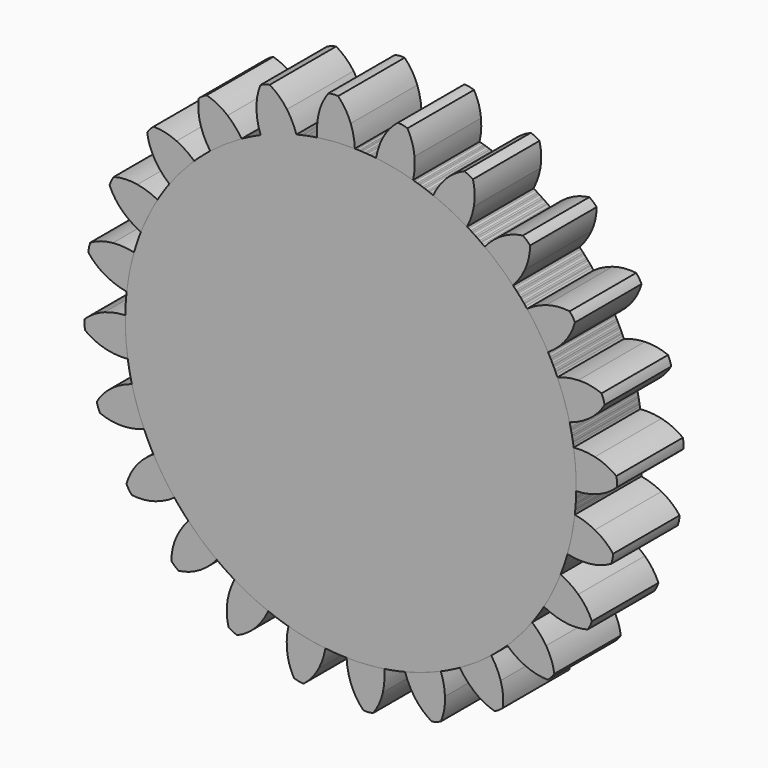
from build123d import *

# Parameters (mm, degrees)
F1_DEPTH = 7.8
F2_COUNT = 24
F2_ANGLE = 345


with BuildPart() as f1:
    # F0 (on Front) → F1 (new body)
    with BuildSketch(Plane.XZ):
        with BuildLine():
            ThreePointArc((-3.143597, 20.915074), (-13.799193, -16.02825), (21.15, 0))
            ThreePointArc((21.15, 0), (15.091421, 14.817945), (0.386738, 21.146464))
            ThreePointArc((0.386738, 21.146464), (-1.383276, 21.104716), (-3.143597, 20.915074))
        make_face()
        with BuildLine():
            ThreePointArc((-3.143597, 20.915074), (-1.383276, 21.104716), (0.386738, 21.146464))
            ThreePointArc((0.386738, 21.146464), (0.269711, 22.138345), (0, 23.1))
            ThreePointArc((0, 23.1), (-0.491557, 24.09884), (-1.182089, 24.972038))
            ThreePointArc((-1.182089, 24.972038), (-1.637014, 24.976002), (-2.087529, 24.912692))
            ThreePointArc((-2.087529, 24.912692), (-2.658179, 23.956832), (-3.015155, 22.902376))
            ThreePointArc((-3.015155, 22.902376), (-3.157037, 21.913744), (-3.143597, 20.915074))
        make_face()
    extrude(amount=F1_DEPTH)


with BuildPart() as f2_1:
    # F2: instance of F1
    add(f1.part.rotate(Axis((0, 0, 0), (0, 1, 0)), 1 * F2_ANGLE / (F2_COUNT - 1)))


with BuildPart() as f2_2:
    # F2: instance of F1
    add(f1.part.rotate(Axis((0, 0, 0), (0, 1, 0)), 2 * F2_ANGLE / (F2_COUNT - 1)))


with BuildPart() as f2_3:
    # F2: instance of F1
    add(f1.part.rotate(Axis((0, 0, 0), (0, 1, 0)), 3 * F2_ANGLE / (F2_COUNT - 1)))


with BuildPart() as f2_4:
    # F2: instance of F1
    add(f1.part.rotate(Axis((0, 0, 0), (0, 1, 0)), 4 * F2_ANGLE / (F2_COUNT - 1)))


with BuildPart() as f2_5:
    # F2: instance of F1
    add(f1.part.rotate(Axis((0, 0, 0), (0, 1, 0)), 5 * F2_ANGLE / (F2_COUNT - 1)))


with BuildPart() as f2_6:
    # F2: instance of F1
    add(f1.part.rotate(Axis((0, 0, 0), (0, 1, 0)), 6 * F2_ANGLE / (F2_COUNT - 1)))


with BuildPart() as f2_7:
    # F2: instance of F1
    add(f1.part.rotate(Axis((0, 0, 0), (0, 1, 0)), 7 * F2_ANGLE / (F2_COUNT - 1)))


with BuildPart() as f2_8:
    # F2: instance of F1
    add(f1.part.rotate(Axis((0, 0, 0), (0, 1, 0)), 8 * F2_ANGLE / (F2_COUNT - 1)))


with BuildPart() as f2_9:
    # F2: instance of F1
    add(f1.part.rotate(Axis((0, 0, 0), (0, 1, 0)), 9 * F2_ANGLE / (F2_COUNT - 1)))


with BuildPart() as f2_10:
    # F2: instance of F1
    add(f1.part.rotate(Axis((0, 0, 0), (0, 1, 0)), 10 * F2_ANGLE / (F2_COUNT - 1)))


with BuildPart() as f2_11:
    # F2: instance of F1
    add(f1.part.rotate(Axis((0, 0, 0), (0, 1, 0)), 11 * F2_ANGLE / (F2_COUNT - 1)))


with BuildPart() as f2_12:
    # F2: instance of F1
    add(f1.part.rotate(Axis((0, 0, 0), (0, 1, 0)), 12 * F2_ANGLE / (F2_COUNT - 1)))


with BuildPart() as f2_13:
    # F2: instance of F1
    add(f1.part.rotate(Axis((0, 0, 0), (0, 1, 0)), 13 * F2_ANGLE / (F2_COUNT - 1)))


with BuildPart() as f2_14:
    # F2: instance of F1
    add(f1.part.rotate(Axis((0, 0, 0), (0, 1, 0)), 14 * F2_ANGLE / (F2_COUNT - 1)))


with BuildPart() as f2_15:
    # F2: instance of F1
    add(f1.part.rotate(Axis((0, 0, 0), (0, 1, 0)), 15 * F2_ANGLE / (F2_COUNT - 1)))


with BuildPart() as f2_16:
    # F2: instance of F1
    add(f1.part.rotate(Axis((0, 0, 0), (0, 1, 0)), 16 * F2_ANGLE / (F2_COUNT - 1)))


with BuildPart() as f2_17:
    # F2: instance of F1
    add(f1.part.rotate(Axis((0, 0, 0), (0, 1, 0)), 17 * F2_ANGLE / (F2_COUNT - 1)))


with BuildPart() as f2_18:
    # F2: instance of F1
    add(f1.part.rotate(Axis((0, 0, 0), (0, 1, 0)), 18 * F2_ANGLE / (F2_COUNT - 1)))


with BuildPart() as f2_19:
    # F2: instance of F1
    add(f1.part.rotate(Axis((0, 0, 0), (0, 1, 0)), 19 * F2_ANGLE / (F2_COUNT - 1)))


with BuildPart() as f2_20:
    # F2: instance of F1
    add(f1.part.rotate(Axis((0, 0, 0), (0, 1, 0)), 20 * F2_ANGLE / (F2_COUNT - 1)))


with BuildPart() as f2_21:
    # F2: instance of F1
    add(f1.part.rotate(Axis((0, 0, 0), (0, 1, 0)), 21 * F2_ANGLE / (F2_COUNT - 1)))


with BuildPart() as f2_22:
    # F2: instance of F1
    add(f1.part.rotate(Axis((0, 0, 0), (0, 1, 0)), 22 * F2_ANGLE / (F2_COUNT - 1)))


with BuildPart() as f2_23:
    # F2: instance of F1
    add(f1.part.rotate(Axis((0, 0, 0), (0, 1, 0)), 23 * F2_ANGLE / (F2_COUNT - 1)))


solid = Compound([f1.part, f2_1.part, f2_2.part, f2_3.part, f2_4.part, f2_5.part, f2_6.part, f2_7.part, f2_8.part, f2_9.part, f2_10.part, f2_11.part, f2_12.part, f2_13.part, f2_14.part, f2_15.part, f2_16.part, f2_17.part, f2_18.part, f2_19.part, f2_20.part, f2_21.part, f2_22.part, f2_23.part])
